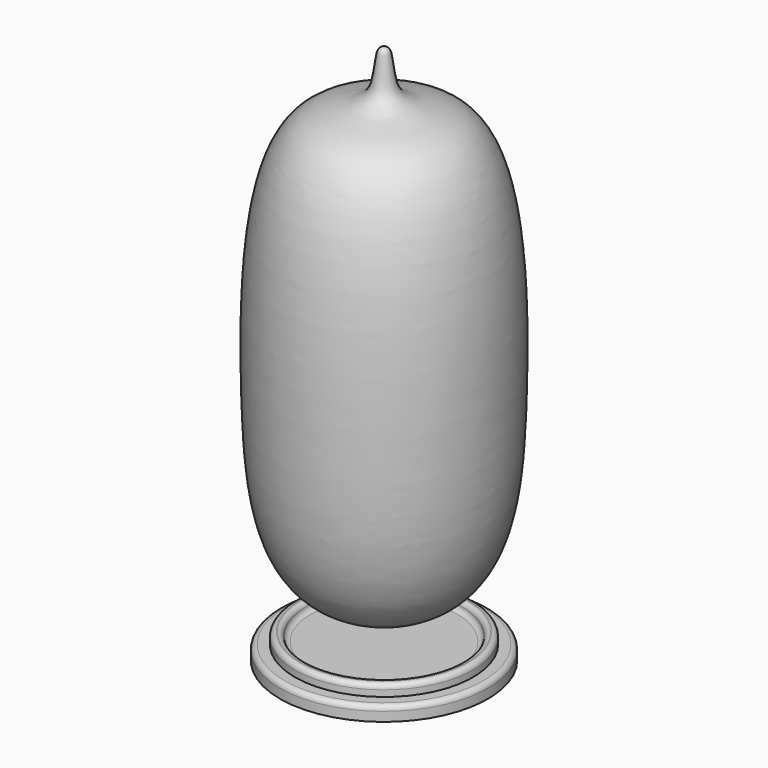
from build123d import *


with BuildPart() as f1:
    # F0 (on Front) → F1 (revolve)
    with BuildSketch(Plane.XZ):
        with BuildLine():
            add(Edge.make_bspline(
                [(0, 4.4999998063), (-10.1538784802, 4.4999998063), (-11.8923961417, 23.5536097703), (-10.9073898369, 50.1197279115), (0.1277887411, 48.8085907747), (-1.049487708, 54.5555072142), (0, 54.4999998063)],
                knots=[0, 0, 0, 0, 0.3302555972, 0.6789053717, 0.8605134392, 1, 1, 1, 1], degree=3))
            Line((0, 4.4999998063), (0, 54.4999998063))
        make_face()
    revolve(axis=Axis((0, 0, 26.1012269184), (0, 0, -1)))


with BuildPart() as f1b:
    # F0 (on Front) → F1, piece 2 (revolve)
    with BuildSketch(Plane.XZ):
        with BuildLine():
            Line((0, 0), (0, 1.6858210473))
            Line((0, 1.6858210473), (-7.4000479612, 1.6858210473))
            ThreePointArc((-7.4000479612, 1.6858210473), (-7.7536013518, 1.8322676567), (-7.9000479612, 2.1858210473))
            Line((-7.9000479612, 2.1858210473), (-7.9000479612, 2.0682554732))
            ThreePointArc((-7.9000479612, 2.0682554732), (-8.0464945706, 2.4218088638), (-8.4000479612, 2.5682554732))
            Line((-8.4000479612, 2.5682554732), (-8.5, 2.5682554732))
            ThreePointArc((-8.5, 2.5682554732), (-8.8535533906, 2.4218088638), (-9, 2.0682554732))
            Line((-9, 2.0682554732), (-9, 1.4378740991))
            Line((-9, 1.4378740991), (-10, 1.4378740991))
            ThreePointArc((-10, 1.4378740991), (-10.3535533906, 1.2914274897), (-10.5, 0.9378740991))
            Line((-10.5, 0.9378740991), (-10.5, 0))
            Line((-10.5, 0), (0, 0))
        make_face()
    revolve(axis=Axis((0, 0, 26.1012269184), (0, 0, -1)))


solid = Compound([f1.part, f1b.part])
